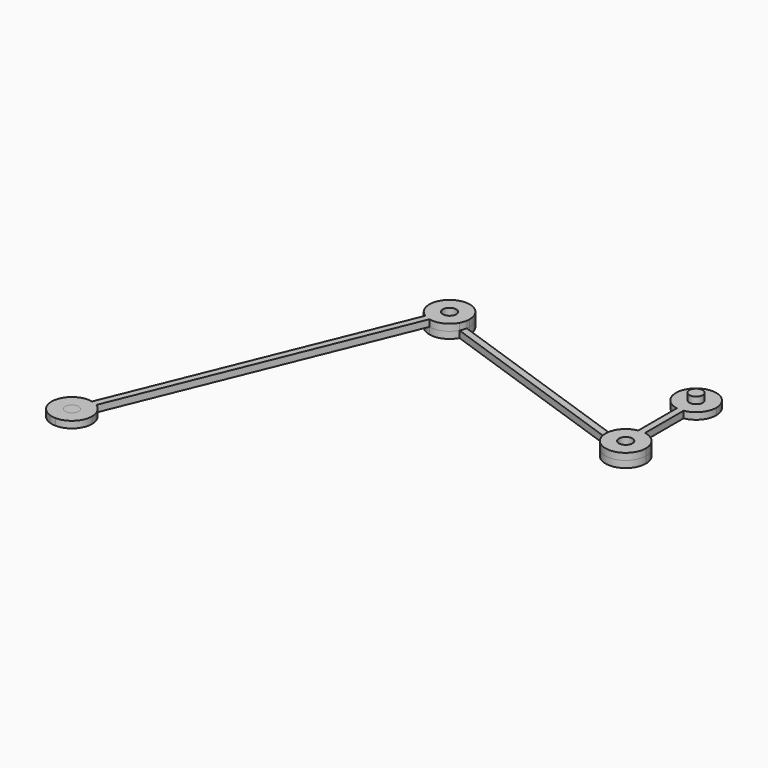
from build123d import *

# Parameters (mm, degrees)
F0_R          = 12.7
F1_DEPTH      = 12.7
F2_DEPTH      = 25.4
F3_DEPTH      = 12.7
F4_DEPTH      = 12.7
F5_DEPTH      = 12.7
F5_DEPTH_BACK = 12.7


with BuildPart() as f1:
    # F0 (on Top) → F1 (new body)
    with BuildSketch(Plane.XY):
        with BuildLine():
            ThreePointArc((-6.35, 128.687026), (0, 128.154133), (6.35, 128.687026))
            ThreePointArc((6.35, 128.687026), (29.099356, 141.660689), (38.1, 166.254133))
            ThreePointArc((38.1, 166.254133), (-24.593444, 195.353489), (-6.35, 128.687026))
        make_face()
        with Locations((0, 166.254133)):
            Circle(F0_R, mode=Mode.SUBTRACT)
        with BuildLine():
            ThreePointArc((-6.35, 37.567107), (0, 38.1), (6.35, 37.567107))
            Line((6.35, 37.567107), (6.35, 128.687026))
            ThreePointArc((6.35, 128.687026), (0, 128.154133), (-6.35, 128.687026))
            Line((-6.35, 128.687026), (-6.35, 37.567107))
        make_face()
        with BuildLine():
            ThreePointArc((-26.397527, -27.47327), (14.930911, -35.052502), (38.1, 0))
            ThreePointArc((38.1, 0), (29.099356, 24.593444), (6.35, 37.567107))
            ThreePointArc((6.35, 37.567107), (0, 38.1), (-6.35, 37.567107))
            ThreePointArc((-6.35, 37.567107), (-22.088994, 31.043298), (-33.410889, 18.311813))
            ThreePointArc((-33.410889, 18.311813), (-35.99555, 12.48721), (-37.573292, 6.313297))
            ThreePointArc((-37.573292, 6.313297), (-37.668703, -5.716537), (-34.008532, -17.17643))
            ThreePointArc((-34.008532, -17.17643), (-30.638688, -22.646871), (-26.397527, -27.47327))
        make_face()
        Circle(F0_R, mode=Mode.SUBTRACT)
    extrude(amount=F1_DEPTH)


with BuildPart() as f2:
    # F0 (on Top) → F2 (new body)
    with BuildSketch(Plane.XY):
        with Locations((0, 166.254133)):
            Circle(F0_R)
    extrude(amount=F2_DEPTH)


with BuildPart() as f3:
    # F0 (on Top) → F3 (new body)
    with BuildSketch(Plane.XY):
        with BuildLine():
            ThreePointArc((-427.038437, 141.422583), (-424.453776, 147.247186), (-422.876033, 153.421099))
            ThreePointArc((-422.876033, 153.421099), (-422.481231, 156.566781), (-422.349325, 159.734396))
            ThreePointArc((-422.349325, 159.734396), (-478.972615, 193.028506), (-480.538184, 127.36083))
            ThreePointArc((-480.538184, 127.36083), (-474.861613, 124.465487), (-468.781881, 122.556734))
            ThreePointArc((-468.781881, 122.556734), (-444.758221, 125.015536), (-427.038437, 141.422583))
        make_face()
        with Locations((-460.449325, 159.734396)):
            Circle(F0_R, mode=Mode.SUBTRACT)
        with BuildLine():
            ThreePointArc((-37.573292, 6.313297), (-35.99555, 12.48721), (-33.410889, 18.311813))
            Line((-33.410889, 18.311813), (-422.876033, 153.421099))
            ThreePointArc((-422.876033, 153.421099), (-424.453776, 147.247186), (-427.038437, 141.422583))
            Line((-427.038437, 141.422583), (-37.573292, 6.313297))
        make_face()
        with BuildLine():
            ThreePointArc((-26.397527, -27.47327), (14.930911, -35.052502), (38.1, 0))
            ThreePointArc((38.1, 0), (29.099356, 24.593444), (6.35, 37.567107))
            ThreePointArc((6.35, 37.567107), (0, 38.1), (-6.35, 37.567107))
            ThreePointArc((-6.35, 37.567107), (-22.088994, 31.043298), (-33.410889, 18.311813))
            ThreePointArc((-33.410889, 18.311813), (-35.99555, 12.48721), (-37.573292, 6.313297))
            ThreePointArc((-37.573292, 6.313297), (-37.668703, -5.716537), (-34.008532, -17.17643))
            ThreePointArc((-34.008532, -17.17643), (-30.638688, -22.646871), (-26.397527, -27.47327))
        make_face()
        Circle(F0_R, mode=Mode.SUBTRACT)
    extrude(amount=-F3_DEPTH)


with BuildPart() as f4:
    # F0 (on Top) → F4 (new body)
    with BuildSketch(Plane.XY):
        with BuildLine():
            ThreePointArc((-427.038437, 141.422583), (-424.453776, 147.247186), (-422.876033, 153.421099))
            ThreePointArc((-422.876033, 153.421099), (-422.481231, 156.566781), (-422.349325, 159.734396))
            ThreePointArc((-422.349325, 159.734396), (-478.972615, 193.028506), (-480.538184, 127.36083))
            ThreePointArc((-480.538184, 127.36083), (-474.861613, 124.465487), (-468.781881, 122.556734))
            ThreePointArc((-468.781881, 122.556734), (-444.758221, 125.015536), (-427.038437, 141.422583))
        make_face()
        with Locations((-460.449325, 159.734396)):
            Circle(F0_R, mode=Mode.SUBTRACT)
        with BuildLine():
            Line((-681.498578, -397.991163), (-468.781881, 122.556734))
            ThreePointArc((-468.781881, 122.556734), (-474.861613, 124.465487), (-480.538184, 127.36083))
            Line((-480.538184, 127.36083), (-693.254881, -393.187068))
            ThreePointArc((-693.254881, -393.187068), (-687.175149, -395.09582), (-681.498578, -397.991163))
        make_face()
        with BuildLine():
            ThreePointArc((-714.328414, -466.27124), (-708.165791, -467.892522), (-701.81915, -468.464025))
            ThreePointArc((-701.81915, -468.464025), (-674.728716, -457.387296), (-663.487437, -430.364729))
            ThreePointArc((-663.487437, -430.364729), (-668.293327, -411.84144), (-681.498578, -397.991163))
            ThreePointArc((-681.498578, -397.991163), (-687.175149, -395.09582), (-693.254881, -393.187068))
            ThreePointArc((-693.254881, -393.187068), (-738.195941, -419.808811), (-714.328414, -466.27124))
        make_face()
        with Locations((-701.587437, -430.364729)):
            Circle(F0_R, mode=Mode.SUBTRACT)
    extrude(amount=F4_DEPTH)


with BuildPart() as f5:
    # F0 (on Top) → F5 (new body, two sides)
    with BuildSketch(Plane.XY) as f5_sk:
        with Locations((-701.587437, -430.364729)):
            Circle(F0_R)
    extrude(amount=F5_DEPTH)
    extrude(f5_sk.sketch, amount=-F5_DEPTH_BACK)


solid = Compound([f1.part, f2.part, f3.part, f4.part, f5.part])
